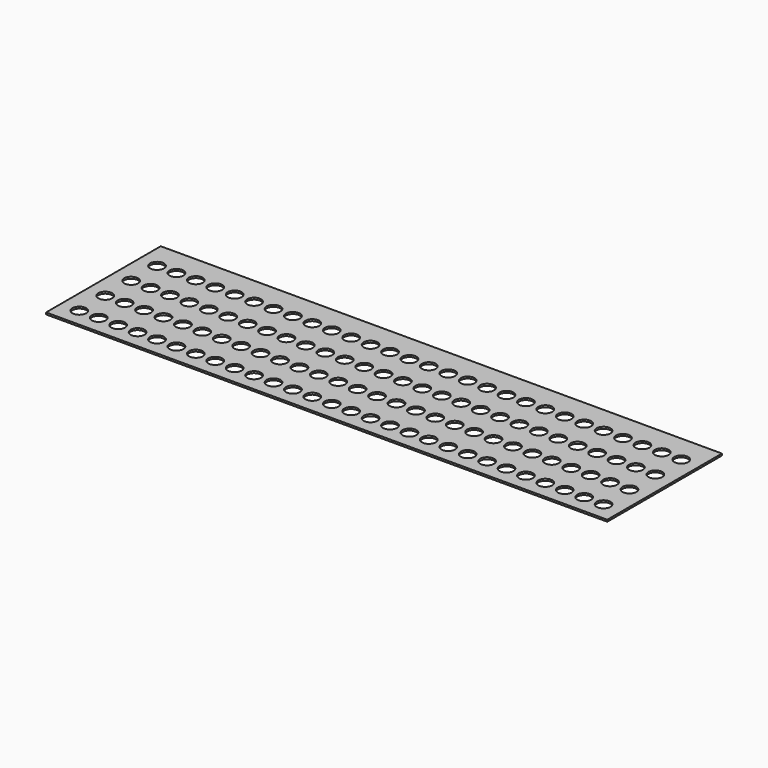
from build123d import *

# Parameters (mm, degrees)
F1_W     = 303.5
F1_H     = 77.5
F2_DEPTH = 1
F0_R     = 3.75
F3_DEPTH = 25


with BuildPart() as f2:
    # F1 (on Top) → F2 (new body)
    with BuildSketch(Plane.XY):
        with Locations((141.75, 28.75)):
            Rectangle(F1_W, F1_H)
    extrude(amount=F2_DEPTH)

    # F0 (on Top) → F3 (cut)
    with BuildSketch(Plane.XY):
        with Locations((115.5, 17.5)):
            Circle(F0_R)
        with Locations((189, 17.5)):
            Circle(F0_R)
        with Locations((84, 0)):
            Circle(F0_R)
        with Locations((52.5, 35)):
            Circle(F0_R)
        with Locations((0, 35)):
            Circle(F0_R)
        with Locations((241.5, 17.5)):
            Circle(F0_R)
        with Locations((136.5, 0)):
            Circle(F0_R)
        with Locations((73.5, 35)):
            Circle(F0_R)
        with Locations((199.5, 0)):
            Circle(F0_R)
        with Locations((21, 35)):
            Circle(F0_R)
        with Locations((84, 17.5)):
            Circle(F0_R)
        with Locations((168, 0)):
            Circle(F0_R)
        with Locations((168, 35)):
            Circle(F0_R)
        with Locations((168, 17.5)):
            Circle(F0_R)
        with Locations((63, 0)):
            Circle(F0_R)
        with Locations((136.5, 35)):
            Circle(F0_R)
        with Locations((252, 17.5)):
            Circle(F0_R)
        with Locations((252, 35)):
            Circle(F0_R)
        with Locations((157.5, 17.5)):
            Circle(F0_R)
        with Locations((52.5, 0)):
            Circle(F0_R)
        with Locations((42, 17.5)):
            Circle(F0_R)
        with Locations((220.5, 17.5)):
            Circle(F0_R)
        with Locations((94.5, 0)):
            Circle(F0_R)
        with Locations((115.5, 35)):
            Circle(F0_R)
        with Locations((126, 17.5)):
            Circle(F0_R)
        with Locations((105, 35)):
            Circle(F0_R)
        with Locations((178.5, 17.5)):
            Circle(F0_R)
        with Locations((73.5, 0)):
            Circle(F0_R)
        with Locations((210, 35)):
            Circle(F0_R)
        with Locations((42, 35)):
            Circle(F0_R)
        with Locations((31.5, 17.5)):
            Circle(F0_R)
        with Locations((10.5, 17.5)):
            Circle(F0_R)
        with Locations((147, 17.5)):
            Circle(F0_R)
        with Locations((21, 0)):
            Circle(F0_R)
        with Locations((73.5, 17.5)):
            Circle(F0_R)
        with Locations((21, 17.5)):
            Circle(F0_R)
        with Locations((115.5, 0)):
            Circle(F0_R)
        with Locations((147, 35)):
            Circle(F0_R)
        with Locations((199.5, 17.5)):
            Circle(F0_R)
        with Locations((189, 0)):
            Circle(F0_R)
        with Locations((210, 17.5)):
            Circle(F0_R)
        with Locations((94.5, 35)):
            Circle(F0_R)
        with Locations((126, 35)):
            Circle(F0_R)
        with Locations((84, 35)):
            Circle(F0_R)
        with Locations((105, 0)):
            Circle(F0_R)
        with Locations((220.5, 35)):
            Circle(F0_R)
        with Locations((252, 0)):
            Circle(F0_R)
        with Locations((157.5, 35)):
            Circle(F0_R)
        with Locations((63, 17.5)):
            Circle(F0_R)
        with Locations((31.5, 0)):
            Circle(F0_R)
        with Locations((63, 35)):
            Circle(F0_R)
        with Locations((178.5, 35)):
            Circle(F0_R)
        with Locations((241.5, 0)):
            Circle(F0_R)
        with Locations((210, 0)):
            Circle(F0_R)
        with Locations((136.5, 17.5)):
            Circle(F0_R)
        with Locations((231, 17.5)):
            Circle(F0_R)
        with Locations((52.5, 17.5)):
            Circle(F0_R)
        with Locations((178.5, 0)):
            Circle(F0_R)
        with Locations((220.5, 0)):
            Circle(F0_R)
        with Locations((189, 35)):
            Circle(F0_R)
        with Locations((147, 0)):
            Circle(F0_R)
        with Locations((94.5, 17.5)):
            Circle(F0_R)
        with Locations((105, 17.5)):
            Circle(F0_R)
        with Locations((10.5, 35)):
            Circle(F0_R)
        with Locations((231, 0)):
            Circle(F0_R)
        with Locations((31.5, 35)):
            Circle(F0_R)
        with Locations((231, 35)):
            Circle(F0_R)
        with Locations((241.5, 35)):
            Circle(F0_R)
        with Locations((157.5, 0)):
            Circle(F0_R)
        with Locations((126, 0)):
            Circle(F0_R)
        with Locations((42, 0)):
            Circle(F0_R)
        with Locations((10.5, 0)):
            Circle(F0_R)
        with Locations((199.5, 35)):
            Circle(F0_R)
        with Locations((0, 17.5)):
            Circle(F0_R)
        Circle(F0_R)
        with Locations((262.5, 35)):
            Circle(F0_R)
        with Locations((273, 35)):
            Circle(F0_R)
        with Locations((283.5, 35)):
            Circle(F0_R)
        with Locations((283.5, 17.5)):
            Circle(F0_R)
        with Locations((273, 17.5)):
            Circle(F0_R)
        with Locations((262.5, 17.5)):
            Circle(F0_R)
        with Locations((262.5, 0)):
            Circle(F0_R)
        with Locations((273, 0)):
            Circle(F0_R)
        with Locations((283.5, 0)):
            Circle(F0_R)
        with Locations((63, 52.5)):
            Circle(F0_R)
        with Locations((94.5, 52.5)):
            Circle(F0_R)
        with Locations((10.5, 52.5)):
            Circle(F0_R)
        with Locations((168, 52.5)):
            Circle(F0_R)
        with Locations((73.5, 52.5)):
            Circle(F0_R)
        with Locations((31.5, 52.5)):
            Circle(F0_R)
        with Locations((126, 52.5)):
            Circle(F0_R)
        with Locations((21, 52.5)):
            Circle(F0_R)
        with Locations((105, 52.5)):
            Circle(F0_R)
        with Locations((115.5, 52.5)):
            Circle(F0_R)
        with Locations((157.5, 52.5)):
            Circle(F0_R)
        with Locations((42, 52.5)):
            Circle(F0_R)
        with Locations((52.5, 52.5)):
            Circle(F0_R)
        with Locations((147, 52.5)):
            Circle(F0_R)
        with Locations((136.5, 52.5)):
            Circle(F0_R)
        with Locations((84, 52.5)):
            Circle(F0_R)
        with Locations((0, 52.5)):
            Circle(F0_R)
        with Locations((283.5, 52.5)):
            Circle(F0_R)
        with Locations((210, 52.5)):
            Circle(F0_R)
        with Locations((231, 52.5)):
            Circle(F0_R)
        with Locations((220.5, 52.5)):
            Circle(F0_R)
        with Locations((273, 52.5)):
            Circle(F0_R)
        with Locations((262.5, 52.5)):
            Circle(F0_R)
        with Locations((178.5, 52.5)):
            Circle(F0_R)
        with Locations((189, 52.5)):
            Circle(F0_R)
        with Locations((199.5, 52.5)):
            Circle(F0_R)
        with Locations((241.5, 52.5)):
            Circle(F0_R)
        with Locations((252, 52.5)):
            Circle(F0_R)
    extrude(amount=F3_DEPTH, mode=Mode.SUBTRACT)


solid = f2.part
